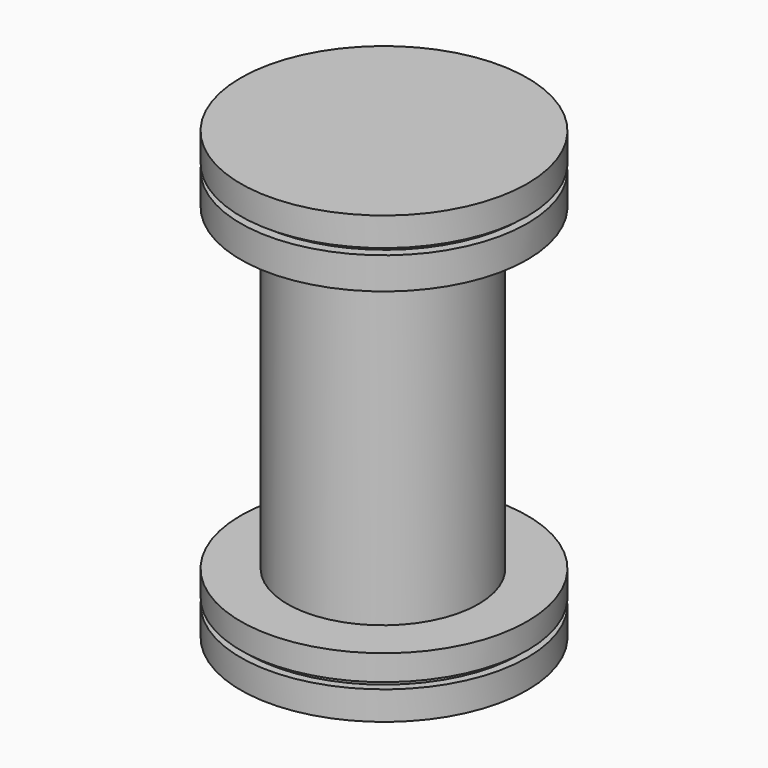
from build123d import *

# Parameters (mm, degrees)
F0_R      = 1.143
F1_DEPTH  = 3.556
F4_R      = 1.143
F4_R_2    = 1.0795
F5_DEPTH  = 0.0508
F6_R      = 1.1557
F6_R_2    = 1.0795
F7_DEPTH  = 0.0508
F9_R      = 1.1557
F9_R_2    = 0.762
F10_DEPTH = 2.54


with BuildPart() as f1:
    # F0 (on Top) → F1 (new body)
    with BuildSketch(Plane.XY):
        Circle(F0_R)
    extrude(amount=F1_DEPTH)

    # F4 (on offset) → F5 (cut)
    with BuildSketch(Plane.XY.offset(0.2286)):
        Circle(F4_R)
        Circle(F4_R_2, mode=Mode.SUBTRACT)
    extrude(amount=F5_DEPTH, mode=Mode.SUBTRACT)

    # F6 (on offset) → F7 (cut)
    with BuildSketch(Plane.XY.offset(3.3274)):
        with Locations((-0.00146219, 0.0118558792)):
            Circle(F6_R)
        with Locations((-0.00146219, 0.0118558792)):
            Circle(F6_R_2, mode=Mode.SUBTRACT)
    extrude(amount=-F7_DEPTH, mode=Mode.SUBTRACT)

    # F9 (on offset) → F10 (cut)
    with BuildSketch(Plane.XY.offset(0.4826)):
        with Locations((-0.002316847, -0.0075962889)):
            Circle(F9_R)
        with Locations((-0.002316847, -0.0075962889)):
            Circle(F9_R_2, mode=Mode.SUBTRACT)
    extrude(amount=F10_DEPTH, mode=Mode.SUBTRACT)


solid = f1.part
